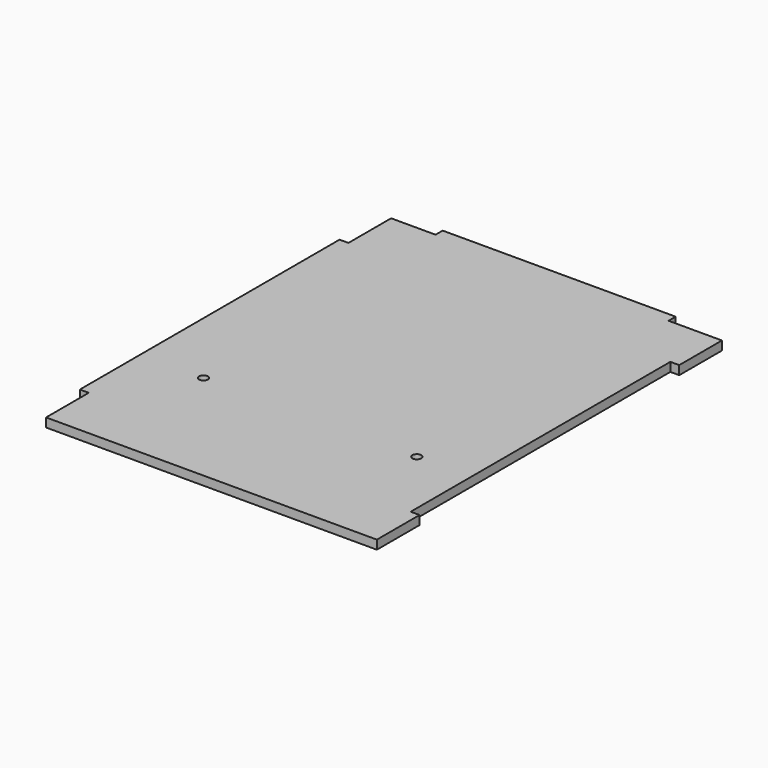
from build123d import *

# Parameters (mm, degrees)
SKETCH_R  = 2.5
PAD_DEPTH = 2.5


with BuildPart() as part:
    # Sketch → Pad (new body, symmetric)
    with BuildSketch(Plane.XY):
        Polygon((63, 121.25), (93, 121.25), (93, 91.25), (88, 91.25), (88, -91.25), (93, -91.25), (93, -121.25), (-93, -121.25), (-93, -91.25), (-98, -91.25), (-98, 91.25), (-93, 91.25), (-93, 121.25), (-68, 121.25), (-68, 126.25), (63, 126.25), align=None)
        with Locations((57.5, -48.75)):
            Circle(SKETCH_R, mode=Mode.SUBTRACT)
        with Locations((-62.5, -48.75)):
            Circle(SKETCH_R, mode=Mode.SUBTRACT)
    extrude(amount=PAD_DEPTH, both=True)


solid = part.part
